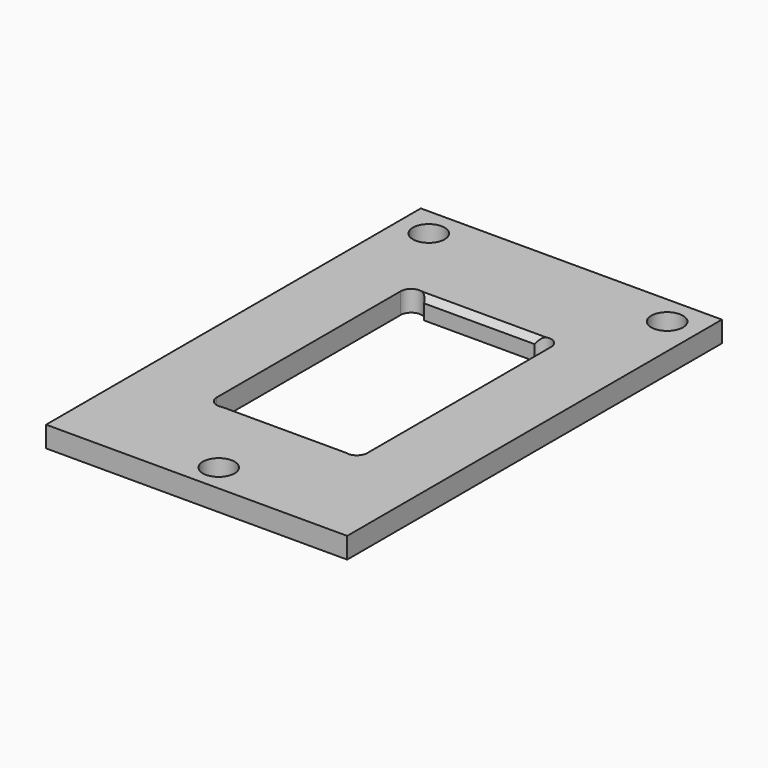
from build123d import *

# Parameters (mm, degrees)
F0_W     = 45.72
F0_H     = 71.12
F0_R     = 2.413
F1_DEPTH = 3.175
F2_SIZE  = 0.889


with BuildPart() as f1:
    # F0 (on Top) → F1 (new body)
    with BuildSketch(Plane.XY):
        Rectangle(F0_W, F0_H)
        with Locations((0, -31.369)):
            Circle(F0_R, mode=Mode.SUBTRACT)
        with BuildLine():
            ThreePointArc((11.43, -17.4625), (10.166842, -19.016514), (8.387532, -18.0975))
            Line((8.387532, -18.0975), (-8.387532, -18.0975))
            ThreePointArc((-8.387532, -18.0975), (-10.166842, -19.016514), (-11.43, -17.4625))
            Line((-11.43, -17.4625), (-11.43, 17.4625))
            ThreePointArc((-11.43, 17.4625), (-10.166842, 19.016514), (-8.387532, 18.0975))
            Line((-8.387532, 18.0975), (8.387532, 18.0975))
            ThreePointArc((8.387532, 18.0975), (10.166842, 19.016514), (11.43, 17.4625))
            Line((11.43, 17.4625), (11.43, -17.4625))
        make_face(mode=Mode.SUBTRACT)
        with Locations((-18.0975, 31.115)):
            Circle(F0_R, mode=Mode.SUBTRACT)
        with Locations((18.0975, 31.115)):
            Circle(F0_R, mode=Mode.SUBTRACT)
    extrude(amount=F1_DEPTH)

    # F2
    f2_edges = [f1.edges().sort_by_distance(p)[0] for p in [
        (0, 18.0975, 3.175),
        (0, -18.0975, 3.175),
    ]]
    chamfer(f2_edges, length=F2_SIZE)


solid = f1.part
